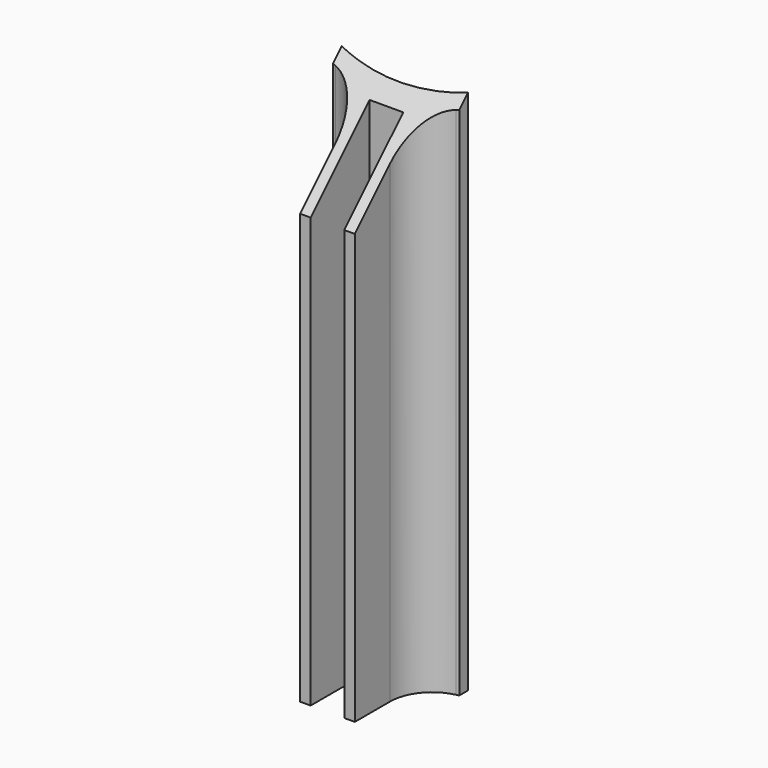
from build123d import *

# Parameters (mm, degrees)
PAD004_DEPTH            = 50
FILLET003_R             = 4
POCKET003_DEPTH         = 8.601
POCKET003_DEPTH_BACK    = 3.401
BODY005_PLACEMENT_ANGLE = 90


with BuildPart() as part:
    # Sketch008 → Pad004 (new body)
    with BuildSketch(Plane.XY):
        with BuildLine():
            ThreePointArc((24.269322, -6), (25, 0), (24.269322, 6))
            Line((24.269322, 6), (25.298221, 6))
            ThreePointArc((25.869673, 2.6), (25.640366, 4.309482), (25.298221, 6))
            Line((25.869673, 2.6), (33.451654, 2.6))
            Line((33.451654, 2.6), (33.451654, 1.6))
            Line((33.451654, 1.6), (26.451654, 1.6))
            Line((26.451654, 1.6), (26.451654, -1.6))
            Line((26.451654, -1.6), (33.451654, -1.6))
            Line((33.451654, -1.6), (33.451654, -2.6))
            Line((33.451654, -2.6), (25.869673, -2.6))
            ThreePointArc((25.298221, -6), (25.640366, -4.309482), (25.869673, -2.6))
            Line((24.269322, -6), (25.298221, -6))
        make_face()
    extrude(amount=PAD004_DEPTH)

    # Fillet003
    fillet003_edges = [part.edges().sort_by_distance(p)[0] for p in [
        (25.869673, -2.6, 25),
        (25.869673, 2.6, 25),
    ]]
    fillet(fillet003_edges, radius=FILLET003_R)

    # Sketch009 (on Face15 of Fillet003) → Pocket003 (cut, two sides)
    with BuildSketch(Plane.XZ.offset(2.6)) as pocket003_sk:
        Polygon((33.451654, 50), (33.451654, 40.817668), (24.269322, 50), align=None)
    extrude(amount=-POCKET003_DEPTH, mode=Mode.SUBTRACT)
    extrude(pocket003_sk.sketch, amount=POCKET003_DEPTH_BACK, mode=Mode.SUBTRACT)


with BuildPart() as part_1:
    # Body005 placement: moved
    add(part.part.moved(Location((0, -15, 0))).rotate(Axis((0, -15, 0), (0, 0, -1)), BODY005_PLACEMENT_ANGLE))


solid = part_1.part
